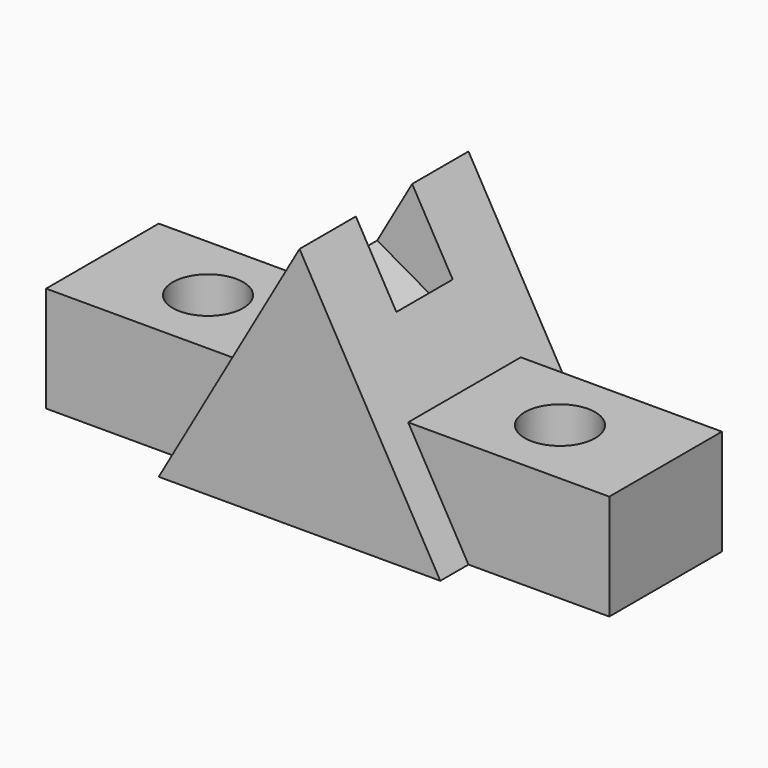
from build123d import *

# Parameters (mm, degrees)
F0_W      = 2032
F0_H      = 889
F1_DEPTH  = 762
F3_DEPTH  = 127
F5_DEPTH  = 762
F7_DEPTH  = 889
F9_DEPTH  = 762
F11_DEPTH = 127
F12_W     = 254
F12_H     = 254
F13_DEPTH = 254
F15_DEPTH = 381
F17_DEPTH = 381
F18_R     = 127
F19_DEPTH = 381
F20_R     = 127
F21_DEPTH = 381
F22_R     = 127
F23_DEPTH = 381
F24_W     = 254
F24_H     = 254
F25_DEPTH = 254


with BuildPart() as f1:
    # F0 (on Front) → F1 (new body)
    with BuildSketch(Plane.XZ):
        with Locations((-1016, 444.5)):
            Rectangle(F0_W, F0_H)
    extrude(amount=F1_DEPTH)

    # F2 (on face) → F3 (cut)
    with BuildSketch(Plane.XZ.offset(762)):
        Polygon((-725.7142857143, 381), (-508, 0), (0, 0), (0, 381), align=None)
        Polygon((-2032, 381), (-2032, 0), (-1524, 0), (-1306.2857142857, 381), align=None)
    extrude(amount=-F3_DEPTH, mode=Mode.SUBTRACT)

    # F4 (on face) → F5 (join)
    with BuildSketch(Plane.XZ.offset(762)):
        Polygon((-2032, 381), (-1306.2857142857, 381), (-1016, 889), (-2032, 889), align=None)
        Polygon((0, 889), (-1016, 889), (-725.7142857143, 381), (0, 381), align=None)
    extrude(amount=-F5_DEPTH)

    # F6 (on face) → F7 (cut)
    with BuildSketch(Plane.XZ.offset(762)):
        Polygon((-2032, 381), (-1306.2857142857, 381), (-1016, 889), (-2032, 889), align=None)
    extrude(amount=-F7_DEPTH, mode=Mode.SUBTRACT)

    # F8 (on face) → F9 (cut)
    with BuildSketch(Plane.XZ.offset(762)):
        Polygon((-1016, 889), (-725.7142857143, 381), (0, 381), (0, 889), align=None)
    extrude(amount=-F9_DEPTH, mode=Mode.SUBTRACT)

    # F10 (on face) → F11 (cut)
    with BuildSketch(Plane(origin=(0, 0, 0), x_dir=(-1, 0, 0), z_dir=(0, 1, 0))):
        Polygon((0, 381), (0, 0), (508, 0), (725.7142857143, 381), align=None)
        Polygon((1306.2857142857, 381), (1524, 0), (2032, 0), (2032, 381), align=None)
    extrude(amount=-F11_DEPTH, mode=Mode.SUBTRACT)

    # F12 (on face) → F13 (cut)
    with BuildSketch(Plane(origin=(-382.9538461538, 0, -218.8307692308), x_dir=(0, 1, 0), z_dir=(0.8682431421, 0, 0.4961389384))):
        with Locations((-381, 1148.9453147192)):
            Rectangle(F12_W, F12_H)
    extrude(amount=F13_DEPTH, mode=Mode.SUBTRACT)

    # F14 (on face) → F15 (cut)
    with BuildSketch(Plane.XY.offset(381)):
        with BuildLine():
            ThreePointArc((-1524, -381), (-1561.1974387893, -291.1974387893), (-1651, -254))
            Line((-1651, -254), (-1651, -381))
            Line((-1651, -381), (-1778, -381))
            ThreePointArc((-1778, -381), (-1651, -508), (-1524, -381))
        make_face()
        with BuildLine():
            Line((-1651, -381), (-1651, -254))
            ThreePointArc((-1651, -254), (-1740.8025612107, -291.1974387893), (-1778, -381))
            Line((-1778, -381), (-1651, -381))
        make_face()
    extrude(amount=-F15_DEPTH, mode=Mode.SUBTRACT)

    # F16 (on face) → F17 (join)
    with BuildSketch(Plane.XY.offset(381)):
        with BuildLine():
            ThreePointArc((-254, -381), (-291.1974387893, -291.1974387893), (-381, -254))
            Line((-381, -254), (-381, -381))
            Line((-381, -381), (-254, -381))
        make_face()
        with BuildLine():
            Line((-381, -381), (-381, -254))
            ThreePointArc((-381, -254), (-470.8025612107, -470.8025612107), (-254, -381))
            Line((-254, -381), (-381, -381))
        make_face()
    extrude(amount=-F17_DEPTH)

    # F18 (on face) → F19 (join)
    with BuildSketch(Plane.XY.offset(381)):
        with Locations((-381, -381)):
            Circle(F18_R)
    extrude(amount=-F19_DEPTH)

    # F20 (on face) → F21 (cut)
    with BuildSketch(Plane.XY.offset(381)):
        with Locations((-381, -381)):
            Circle(F20_R)
    extrude(amount=F21_DEPTH, mode=Mode.SUBTRACT)

    # F22 (on face) → F23 (cut)
    with BuildSketch(Plane.XY.offset(381)):
        with Locations((-381, -381)):
            Circle(F22_R)
    extrude(amount=-F23_DEPTH, mode=Mode.SUBTRACT)

    # F24 (on face) → F25 (cut)
    with BuildSketch(Plane(origin=(-1148.8615384615, 0, 656.4923076923), x_dir=(0, -1, 0), z_dir=(-0.8682431421, 0, 0.4961389384))):
        with Locations((381, 140.7909919781)):
            Rectangle(F24_W, F24_H)
        with Locations((381, 394.7909919781)):
            Rectangle(F24_W, F24_H)
    extrude(amount=-F25_DEPTH, mode=Mode.SUBTRACT)


solid = f1.part
